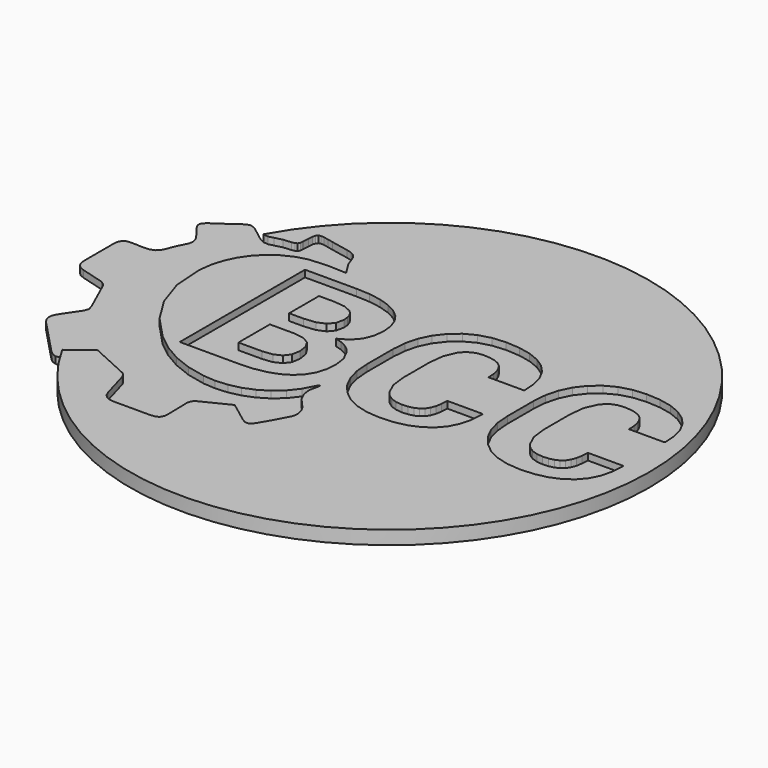
from build123d import *

# Parameters (mm, degrees)
F1_R     = 38.1
F2_DEPTH = 1
F3_DEPTH = 25
F4_DEPTH = 1
F5_DEPTH = 25
F6_DEPTH = 1


with BuildPart() as f2:
    # F1 (on Top) → F2 (new body)
    with BuildSketch(Plane.XY):
        Circle(F1_R)
    extrude(amount=F2_DEPTH)

    # F0 (on Top) → F3 (cut)
    with BuildSketch(Plane.XY):
        Polygon((-31.521139, -16.904964), (-30.177962, -15.86032), (-24.441951, -18.477338), (-24.086207, -18.804991), (-23.857701, -19.264355), (-22.714709, -23.261998), (-22.448708, -23.876429), (-22.051012, -24.31663), (-21.515936, -24.580081), (-20.838101, -24.664291), (-15.396366, -24.657622), (-14.710233, -24.576746), (-14.260751, -24.324974), (-14.017492, -23.864766), (-13.947419, -23.163619), (-14.026712, -19.645362), (-13.895018, -19.122641), (-13.582301, -18.735794), (-9.412948, -16.664856), (-7.939567, -17.767847), (-6.383052, -18.945875), (-5.903757, -19.228504), (-5.465186, -19.294366), (-5.06918, -19.116786), (-4.714972, -18.669932), (-3.562607, -16.684863), (-2.497218, -14.660609), (-2.401329, -14.25961), (-2.414544, -13.803565), (-2.503826, -13.332508), (-2.630603, -12.888142), (-2.991726, -12.251184), (-3.511896, -11.697621), (-4.390577, -10.682159), (-4.920889, -9.579998), (-5.059191, -8.373663), (-4.761688, -7.047959), (-4.805023, -6.730325), (-5.041673, -7.007237), (-5.922966, -8.698827), (-7.04429, -10.125247), (-8.369073, -11.289091), (-9.858742, -12.191176), (-11.477801, -12.833959), (-13.187064, -13.219131), (-14.949496, -13.350026), (-16.727756, -13.227475), (-19.448163, -12.627212), (-21.975253, -11.632588), (-24.317787, -10.266976), (-26.483908, -8.552073), (-29.560212, -5.27477), (-31.837928, -1.625587), (-33.196041, 2.441269), (-33.512031, 6.970055), (-33.281097, 8.79165), (-32.788372, 10.493383), (-32.05222, 12.051281), (-31.089221, 13.441988), (-29.915342, 14.639993), (-28.547225, 15.622246), (-27.00331, 16.363239), (-25.297428, 16.838538), (-22.512788, 16.996971), (-19.915163, 16.895396), (-20.496187, 17.811572), (-21.103948, 18.811959), (-21.426654, 19.713229), (-21.696651, 20.390295), (-22.117704, 20.883727), (-22.682131, 21.21473), (-23.380865, 21.399748), (-25.889515, 21.905013), (-26.744838, 22.094333), (-27.394244, 22.224184), (-27.869543, 22.264291), (-28.197934, 22.180081), (-28.410613, 21.939896), (-28.536468, 21.509929), (-28.603929, 20.857911), (-28.644036, 19.950801), (-28.653103, 19.844923), (-28.689061, 19.446459), (-28.848263, 19.175386), (-29.130092, 19.01219), (-29.533627, 18.938736), (-30.712424, 18.831167), (-31.837098, 18.550875), (-32.569931, 18.366779), (-33.216064, 18.4284), (-33.817172, 18.689484), (-34.415775, 19.103623), (-35.388717, 19.865822), (-36.098192, 20.39429), (-36.630103, 20.699478), (-37.070304, 20.791218), (-37.50465, 20.679501), (-38.017398, 20.375082), (-38.693527, 19.888258), (-39.619783, 19.228709), (-40.551879, 18.598512), (-41.228823, 18.124903), (-41.657376, 17.741652), (-41.84413, 17.38391), (-41.79743, 16.986829), (-41.523146, 16.486021), (-41.02873, 15.813872), (-40.320915, 14.906763), (-39.865716, 14.225701), (-39.657309, 13.5912), (-39.728996, 12.923354), (-40.114168, 12.139641), (-40.555199, 11.25927), (-40.867839, 10.409018), (-41.196322, 9.676938), (-41.683223, 9.15016), (-42.416025, 8.884312), (-43.285609, 8.829145), (-44.216015, 8.873402), (-45.128933, 8.900908), (-45.739199, 8.799179), (-46.153553, 8.525648), (-46.390326, 8.086308), (-46.464533, 7.487766), (-46.462028, 1.939232), (-46.372823, 1.301504), (-46.111033, 0.792091), (-45.680006, 0.412835), (-45.078913, 0.162662), (-41.694041, -0.790241), (-41.203007, -1.106185), (-40.847831, -1.586401), (-38.707695, -6.340159), (-38.519281, -7.030441), (-38.773558, -7.680769), (-39.638946, -8.961448), (-40.49599, -10.248628), (-40.825319, -10.888076), (-40.895346, -11.501693), (-40.718611, -12.089447), (-40.308406, -12.656379), (-35.31368, -17.917075), (-34.746763, -18.376469), (-34.19483, -18.543201), (-33.618739, -18.424814), (-32.975126, -18.031313), align=None)
        Polygon((-24.101113, 14.584365), (-24.101113, -8.396099), (-15.341353, -8.396099), (-13.357176, -8.288531), (-11.617179, -7.965979), (-10.121517, -7.428137), (-8.870188, -6.675311), (-7.883017, -5.71242), (-7.177675, -4.54438), (-6.754931, -3.171346), (-6.613095, -1.593009), (-6.860041, 0.115332), (-7.599497, 1.610841), (-8.159622, 2.246109), (-8.85267, 2.763052), (-9.678949, 3.161517), (-10.637538, 3.441809), (-9.241146, 4.244577), (-8.270724, 5.359294), (-7.702917, 6.722494), (-7.512828, 8.270404), (-7.662809, 9.744552), (-8.110601, 11.023388), (-8.858509, 12.108139), (-9.903767, 12.99773), (-11.217946, 13.692161), (-12.766779, 14.188205), (-14.551954, 14.485863), (-16.571936, 14.584365), align=None)
        Polygon((-18.766332, -4.29267), (-18.766332, 1.468236), (-15.325525, 1.468236), (-15.151264, 1.468236), (-13.673888, 1.244186), (-12.681799, 0.663777), (-12.119831, -0.271607), (-11.932201, -1.562275), (-12.145648, -2.771191), (-12.784297, -3.621443), (-13.849993, -4.124248), (-15.341353, -4.29267), align=None, mode=Mode.SUBTRACT)
        Polygon((-16.666903, 5.004164), (-18.766332, 5.004164), (-18.766332, 10.480782), (-16.571936, 10.480782), (-14.92368, 10.313129), (-13.763016, 9.809401), (-13.362861, 9.425381), (-13.076883, 8.93994), (-12.905235, 8.355536), (-12.847609, 7.671094), (-13.084567, 6.509662), (-13.794826, 5.674316), (-14.986223, 5.171664), align=None, mode=Mode.SUBTRACT)
        Polygon((14.188801, -0.740913), (14.156991, -0.646868), (8.964662, -0.646868), (8.913797, -1.642337), (8.761204, -2.485059), (8.506881, -3.173036), (8.151598, -3.708112), (7.681524, -4.108421), (7.083597, -4.394245), (6.359354, -4.566047), (5.50818, -4.623673), (4.578481, -4.532701), (3.764034, -4.260092), (3.062842, -3.806614), (2.477362, -3.172114), (1.684736, -1.478833), (1.420271, 0.695433), (1.420271, 5.524181), (1.660456, 7.685231), (2.383316, 9.367756), (2.916856, 9.999643), (3.554583, 10.451431), (4.297574, 10.721735), (5.145367, 10.811785), (6.09827, 10.754928), (6.908721, 10.583125), (7.574724, 10.297454), (8.096892, 9.896378), (8.489363, 9.364528), (8.771192, 8.681469), (8.939614, 7.849504), (8.996164, 6.866482), (14.188801, 6.866482), (14.236131, 6.960835), (14.113656, 8.787347), (13.685073, 10.38228), (12.949766, 11.746401), (11.908503, 12.879251), (10.588638, 13.770532), (9.021366, 14.406569), (7.207301, 14.788591), (5.145367, 14.915214), (3.201144, 14.752786), (1.45792, 14.262428), (-0.085226, 13.446137), (-1.428295, 12.303145), (-2.516427, 10.898455), (-3.293532, 9.29507), (-3.759457, 7.493606), (-3.914509, 5.493447), (-3.914509, 0.695433), (-3.753618, -1.310411), (-3.269099, -3.116178), (-2.463104, -4.720331), (-1.333327, -6.123485), (0.061374, -7.262328), (1.667218, -8.076006), (3.482051, -8.563752), (5.50818, -8.727103), (7.479756, -8.599557), (9.214682, -8.21938), (10.712034, -7.585801), (11.971815, -6.699591), (12.964672, -5.565666), (13.665864, -4.19509), (14.073549, -2.586942), align=None)
        Polygon((34.817972, -0.740913), (34.785394, -0.646868), (29.593064, -0.646868), (29.5422, -1.642337), (29.389606, -2.485059), (29.135437, -3.173036), (28.780308, -3.708112), (28.31008, -4.108421), (27.712307, -4.394245), (26.987603, -4.566047), (26.136583, -4.623673), (25.206884, -4.532701), (24.392437, -4.260092), (23.692166, -3.806614), (23.106072, -3.172114), (22.313139, -1.478833), (22.048981, 0.695433), (22.048981, 5.524181), (22.289013, 7.685231), (23.011719, 9.367756), (23.54449, 9.999643), (24.183139, 10.451431), (24.925976, 10.721735), (25.773923, 10.811785), (26.726826, 10.754928), (27.53697, 10.583125), (28.202512, 10.297454), (28.725141, 9.896378), (29.117919, 9.364528), (29.399595, 8.681469), (29.568016, 7.849504), (29.624874, 6.866482), (34.817972, 6.866482), (34.864533, 6.960835), (34.742827, 8.787347), (34.314244, 10.38228), (33.57909, 11.746401), (32.536906, 12.879251), (31.217194, 13.770532), (29.649768, 14.406569), (27.835703, 14.788591), (25.773923, 14.915214), (23.829547, 14.752786), (22.086323, 14.262428), (20.543177, 13.446137), (19.200108, 12.303145), (18.111976, 10.898455), (17.335178, 9.29507), (16.868945, 7.493606), (16.714047, 5.493447), (16.714047, 0.695433), (16.874785, -1.310411), (17.358382, -3.116178), (18.165299, -4.720331), (19.294153, -6.123485), (20.689162, -7.262328), (22.294852, -8.076006), (24.110608, -8.563752), (26.136583, -8.727103), (28.108159, -8.599557), (29.843084, -8.21938), (31.339669, -7.585801), (32.599449, -6.699591), (33.593074, -5.565666), (34.29442, -4.19509), (34.702105, -2.586942), align=None)
    extrude(amount=F3_DEPTH, mode=Mode.SUBTRACT)



with BuildPart() as f4:
    # F0 (on Top) → F4 (new body)
    with BuildSketch(Plane.XY):
        Polygon((-31.521139, -16.904964), (-30.177962, -15.86032), (-24.441951, -18.477338), (-24.086207, -18.804991), (-23.857701, -19.264355), (-22.714709, -23.261998), (-22.448708, -23.876429), (-22.051012, -24.31663), (-21.515936, -24.580081), (-20.838101, -24.664291), (-15.396366, -24.657622), (-14.710233, -24.576746), (-14.260751, -24.324974), (-14.017492, -23.864766), (-13.947419, -23.163619), (-14.026712, -19.645362), (-13.895018, -19.122641), (-13.582301, -18.735794), (-9.412948, -16.664856), (-7.939567, -17.767847), (-6.383052, -18.945875), (-5.903757, -19.228504), (-5.465186, -19.294366), (-5.06918, -19.116786), (-4.714972, -18.669932), (-3.562607, -16.684863), (-2.497218, -14.660609), (-2.401329, -14.25961), (-2.414544, -13.803565), (-2.503826, -13.332508), (-2.630603, -12.888142), (-2.991726, -12.251184), (-3.511896, -11.697621), (-4.390577, -10.682159), (-4.920889, -9.579998), (-5.059191, -8.373663), (-4.761688, -7.047959), (-4.805023, -6.730325), (-5.041673, -7.007237), (-5.922966, -8.698827), (-7.04429, -10.125247), (-8.369073, -11.289091), (-9.858742, -12.191176), (-11.477801, -12.833959), (-13.187064, -13.219131), (-14.949496, -13.350026), (-16.727756, -13.227475), (-19.448163, -12.627212), (-21.975253, -11.632588), (-24.317787, -10.266976), (-26.483908, -8.552073), (-29.560212, -5.27477), (-31.837928, -1.625587), (-33.196041, 2.441269), (-33.512031, 6.970055), (-33.281097, 8.79165), (-32.788372, 10.493383), (-32.05222, 12.051281), (-31.089221, 13.441988), (-29.915342, 14.639993), (-28.547225, 15.622246), (-27.00331, 16.363239), (-25.297428, 16.838538), (-22.512788, 16.996971), (-19.915163, 16.895396), (-20.496187, 17.811572), (-21.103948, 18.811959), (-21.426654, 19.713229), (-21.696651, 20.390295), (-22.117704, 20.883727), (-22.682131, 21.21473), (-23.380865, 21.399748), (-25.889515, 21.905013), (-26.744838, 22.094333), (-27.394244, 22.224184), (-27.869543, 22.264291), (-28.197934, 22.180081), (-28.410613, 21.939896), (-28.536468, 21.509929), (-28.603929, 20.857911), (-28.644036, 19.950801), (-28.653103, 19.844923), (-28.689061, 19.446459), (-28.848263, 19.175386), (-29.130092, 19.01219), (-29.533627, 18.938736), (-30.712424, 18.831167), (-31.837098, 18.550875), (-32.569931, 18.366779), (-33.216064, 18.4284), (-33.817172, 18.689484), (-34.415775, 19.103623), (-35.388717, 19.865822), (-36.098192, 20.39429), (-36.630103, 20.699478), (-37.070304, 20.791218), (-37.50465, 20.679501), (-38.017398, 20.375082), (-38.693527, 19.888258), (-39.619783, 19.228709), (-40.551879, 18.598512), (-41.228823, 18.124903), (-41.657376, 17.741652), (-41.84413, 17.38391), (-41.79743, 16.986829), (-41.523146, 16.486021), (-41.02873, 15.813872), (-40.320915, 14.906763), (-39.865716, 14.225701), (-39.657309, 13.5912), (-39.728996, 12.923354), (-40.114168, 12.139641), (-40.555199, 11.25927), (-40.867839, 10.409018), (-41.196322, 9.676938), (-41.683223, 9.15016), (-42.416025, 8.884312), (-43.285609, 8.829145), (-44.216015, 8.873402), (-45.128933, 8.900908), (-45.739199, 8.799179), (-46.153553, 8.525648), (-46.390326, 8.086308), (-46.464533, 7.487766), (-46.462028, 1.939232), (-46.372823, 1.301504), (-46.111033, 0.792091), (-45.680006, 0.412835), (-45.078913, 0.162662), (-41.694041, -0.790241), (-41.203007, -1.106185), (-40.847831, -1.586401), (-38.707695, -6.340159), (-38.519281, -7.030441), (-38.773558, -7.680769), (-39.638946, -8.961448), (-40.49599, -10.248628), (-40.825319, -10.888076), (-40.895346, -11.501693), (-40.718611, -12.089447), (-40.308406, -12.656379), (-35.31368, -17.917075), (-34.746763, -18.376469), (-34.19483, -18.543201), (-33.618739, -18.424814), (-32.975126, -18.031313), align=None)
        Polygon((-24.101113, 14.584365), (-24.101113, -8.396099), (-15.341353, -8.396099), (-13.357176, -8.288531), (-11.617179, -7.965979), (-10.121517, -7.428137), (-8.870188, -6.675311), (-7.883017, -5.71242), (-7.177675, -4.54438), (-6.754931, -3.171346), (-6.613095, -1.593009), (-6.860041, 0.115332), (-7.599497, 1.610841), (-8.159622, 2.246109), (-8.85267, 2.763052), (-9.678949, 3.161517), (-10.637538, 3.441809), (-9.241146, 4.244577), (-8.270724, 5.359294), (-7.702917, 6.722494), (-7.512828, 8.270404), (-7.662809, 9.744552), (-8.110601, 11.023388), (-8.858509, 12.108139), (-9.903767, 12.99773), (-11.217946, 13.692161), (-12.766779, 14.188205), (-14.551954, 14.485863), (-16.571936, 14.584365), align=None)
        Polygon((-18.766332, -4.29267), (-18.766332, 1.468236), (-15.325525, 1.468236), (-15.151264, 1.468236), (-13.673888, 1.244186), (-12.681799, 0.663777), (-12.119831, -0.271607), (-11.932201, -1.562275), (-12.145648, -2.771191), (-12.784297, -3.621443), (-13.849993, -4.124248), (-15.341353, -4.29267), align=None, mode=Mode.SUBTRACT)
        Polygon((-16.666903, 5.004164), (-18.766332, 5.004164), (-18.766332, 10.480782), (-16.571936, 10.480782), (-14.92368, 10.313129), (-13.763016, 9.809401), (-13.362861, 9.425381), (-13.076883, 8.93994), (-12.905235, 8.355536), (-12.847609, 7.671094), (-13.084567, 6.509662), (-13.794826, 5.674316), (-14.986223, 5.171664), align=None, mode=Mode.SUBTRACT)
        Polygon((14.188801, -0.740913), (14.156991, -0.646868), (8.964662, -0.646868), (8.913797, -1.642337), (8.761204, -2.485059), (8.506881, -3.173036), (8.151598, -3.708112), (7.681524, -4.108421), (7.083597, -4.394245), (6.359354, -4.566047), (5.50818, -4.623673), (4.578481, -4.532701), (3.764034, -4.260092), (3.062842, -3.806614), (2.477362, -3.172114), (1.684736, -1.478833), (1.420271, 0.695433), (1.420271, 5.524181), (1.660456, 7.685231), (2.383316, 9.367756), (2.916856, 9.999643), (3.554583, 10.451431), (4.297574, 10.721735), (5.145367, 10.811785), (6.09827, 10.754928), (6.908721, 10.583125), (7.574724, 10.297454), (8.096892, 9.896378), (8.489363, 9.364528), (8.771192, 8.681469), (8.939614, 7.849504), (8.996164, 6.866482), (14.188801, 6.866482), (14.236131, 6.960835), (14.113656, 8.787347), (13.685073, 10.38228), (12.949766, 11.746401), (11.908503, 12.879251), (10.588638, 13.770532), (9.021366, 14.406569), (7.207301, 14.788591), (5.145367, 14.915214), (3.201144, 14.752786), (1.45792, 14.262428), (-0.085226, 13.446137), (-1.428295, 12.303145), (-2.516427, 10.898455), (-3.293532, 9.29507), (-3.759457, 7.493606), (-3.914509, 5.493447), (-3.914509, 0.695433), (-3.753618, -1.310411), (-3.269099, -3.116178), (-2.463104, -4.720331), (-1.333327, -6.123485), (0.061374, -7.262328), (1.667218, -8.076006), (3.482051, -8.563752), (5.50818, -8.727103), (7.479756, -8.599557), (9.214682, -8.21938), (10.712034, -7.585801), (11.971815, -6.699591), (12.964672, -5.565666), (13.665864, -4.19509), (14.073549, -2.586942), align=None)
        Polygon((34.817972, -0.740913), (34.785394, -0.646868), (29.593064, -0.646868), (29.5422, -1.642337), (29.389606, -2.485059), (29.135437, -3.173036), (28.780308, -3.708112), (28.31008, -4.108421), (27.712307, -4.394245), (26.987603, -4.566047), (26.136583, -4.623673), (25.206884, -4.532701), (24.392437, -4.260092), (23.692166, -3.806614), (23.106072, -3.172114), (22.313139, -1.478833), (22.048981, 0.695433), (22.048981, 5.524181), (22.289013, 7.685231), (23.011719, 9.367756), (23.54449, 9.999643), (24.183139, 10.451431), (24.925976, 10.721735), (25.773923, 10.811785), (26.726826, 10.754928), (27.53697, 10.583125), (28.202512, 10.297454), (28.725141, 9.896378), (29.117919, 9.364528), (29.399595, 8.681469), (29.568016, 7.849504), (29.624874, 6.866482), (34.817972, 6.866482), (34.864533, 6.960835), (34.742827, 8.787347), (34.314244, 10.38228), (33.57909, 11.746401), (32.536906, 12.879251), (31.217194, 13.770532), (29.649768, 14.406569), (27.835703, 14.788591), (25.773923, 14.915214), (23.829547, 14.752786), (22.086323, 14.262428), (20.543177, 13.446137), (19.200108, 12.303145), (18.111976, 10.898455), (17.335178, 9.29507), (16.868945, 7.493606), (16.714047, 5.493447), (16.714047, 0.695433), (16.874785, -1.310411), (17.358382, -3.116178), (18.165299, -4.720331), (19.294153, -6.123485), (20.689162, -7.262328), (22.294852, -8.076006), (24.110608, -8.563752), (26.136583, -8.727103), (28.108159, -8.599557), (29.843084, -8.21938), (31.339669, -7.585801), (32.599449, -6.699591), (33.593074, -5.565666), (34.29442, -4.19509), (34.702105, -2.586942), align=None)
    extrude(amount=-F4_DEPTH)

    # F1 (on Top) → F5 (cut)
    with BuildSketch(Plane.XY):
        Circle(F1_R)
    extrude(amount=-F5_DEPTH, mode=Mode.SUBTRACT)


with BuildPart() as f2_1:
    add(f2.part)

    add(f4.part)  # F6 merges F4
    # F1 (on Top) → F6 (join)
    with BuildSketch(Plane.XY):
        Circle(F1_R)
    extrude(amount=-F6_DEPTH)


solid = f2_1.part
